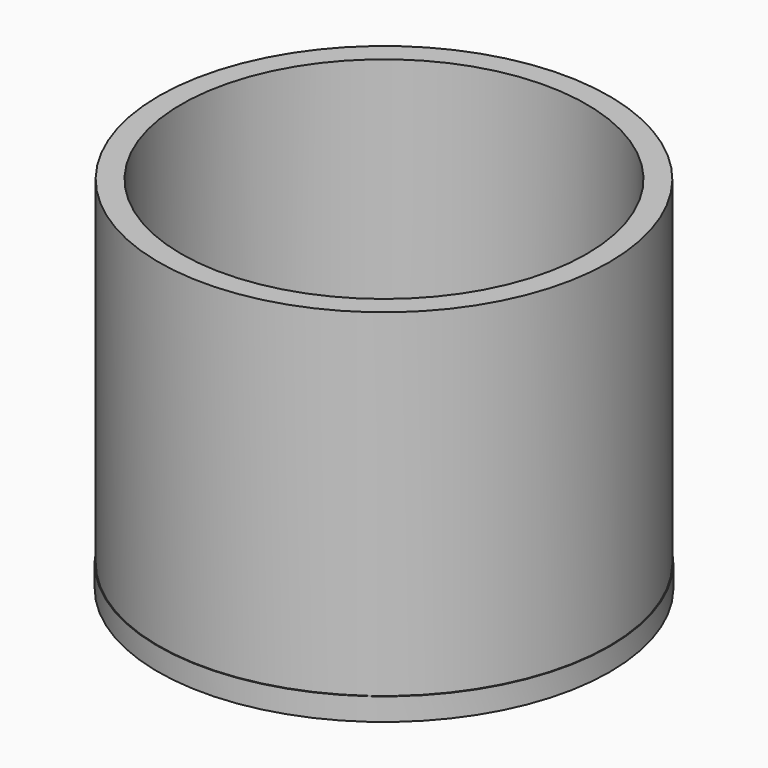
from build123d import *

# Parameters (mm, degrees)
F0_R     = 12.7
F0_R_2   = 11.43
F1_DEPTH = 19.05
F2_R     = 12.744954
F3_DEPTH = 1.27


with BuildPart() as f1:
    # F0 (on Top) → F1 (new body)
    with BuildSketch(Plane.XY):
        Circle(F0_R)
        Circle(F0_R_2, mode=Mode.SUBTRACT)
    extrude(amount=F1_DEPTH)

    # F2 (on face) → F3 (join)
    with BuildSketch(Plane(origin=(0, 0, 0), x_dir=(1, 0, 0), z_dir=(0, 0, -1))):
        Circle(F2_R)
    extrude(amount=F3_DEPTH)


solid = f1.part
